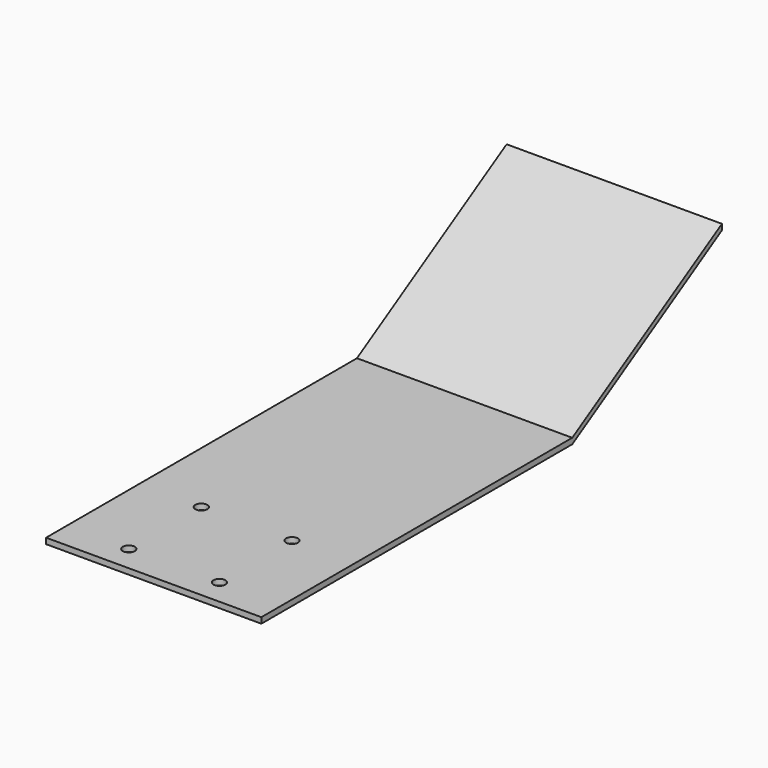
from build123d import *

# Parameters (mm, degrees)
F1_DEPTH = 37.9984
F3_D     = 2.1082


with BuildPart() as f1:
    # F0 (on Right) → F1 (new body)
    with BuildSketch(Plane.YZ):
        Polygon((56.405449, 43.313997), (-12.174551, 43.313997), (-12.174551, 42.297997), (56.405449, 42.297997), (89.425449, 62.118991), (89.425449, 63.134991), align=None)
    extrude(amount=F1_DEPTH)

    # F3 (through all)
    with Locations(Plane(origin=(0, 0, 42.297997), x_dir=(1, 0, 0), z_dir=(0, 0, -1))):
        with Locations((27.0002, -8.323249), (10.9982, -8.323249), (10.9982, 7.678751), (27.0002, 7.678751)):
            Hole(F3_D / 2)


solid = f1.part
